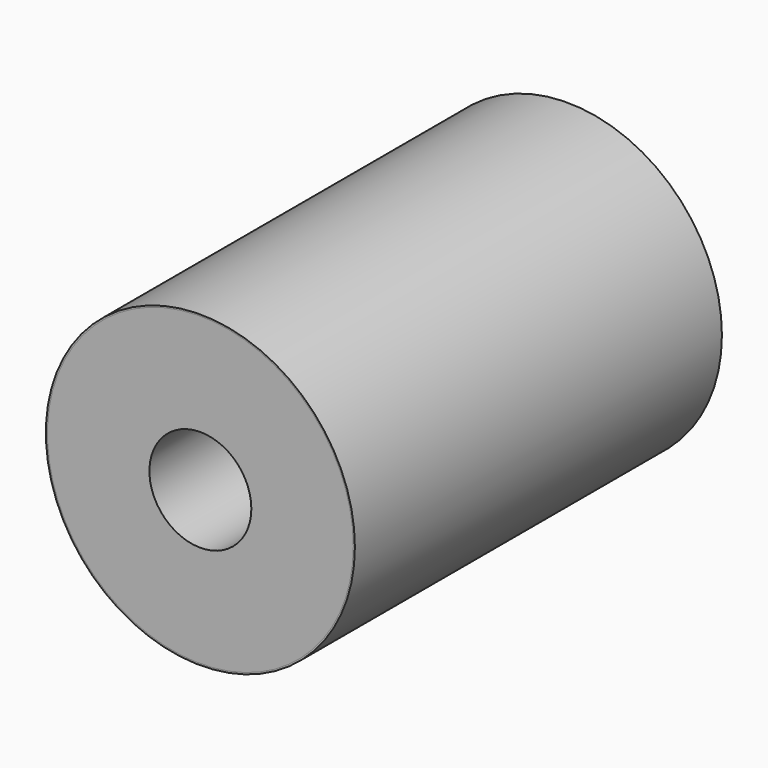
from build123d import *

# Parameters (mm, degrees)
F0_R     = 153.9875
F0_R_2   = 152.4
F1_DEPTH = 457.2
F0_R_3   = 50.8
F2_DEPTH = 457.2


with BuildPart() as f1:
    # F0 (on Front) → F1 (new body)
    with BuildSketch(Plane.XZ):
        Circle(F0_R)
        Circle(F0_R_2, mode=Mode.SUBTRACT)
    extrude(amount=-F1_DEPTH)


with BuildPart() as f2:
    # F0 (on Front) → F2 (new body)
    with BuildSketch(Plane.XZ):
        Circle(F0_R_2)
        Circle(F0_R_3, mode=Mode.SUBTRACT)
    extrude(amount=-F2_DEPTH)


solid = Compound([f1.part, f2.part])
